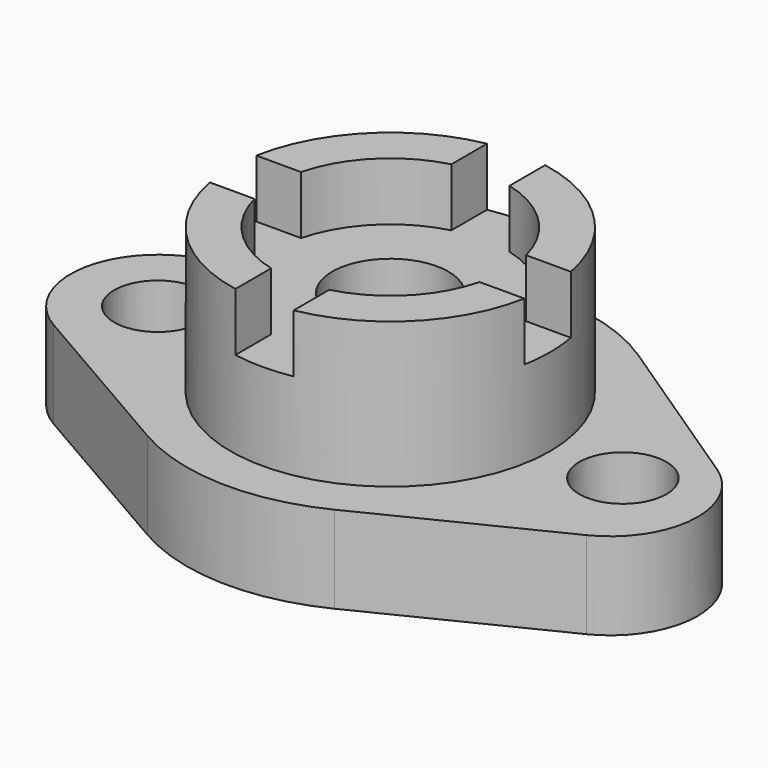
from build123d import *

# Parameters (mm, degrees)
F0_R     = 9.525
F0_R_2   = 34.925
F1_DEPTH = 19.05
F0_R_3   = 25.4
F2_DEPTH = 50.8
F0_R_4   = 12.7
F3_DEPTH = 38.1
F5_DEPTH = 12.7
F7_DEPTH = 12.7


with BuildPart() as f1:
    # F0 (on Top) → F1 (new body)
    with BuildSketch(Plane.XY):
        with BuildLine():
            Line((-60.325, -16.4977839421), (-22.225, -38.4948291982))
            ThreePointArc((-22.225, -38.4948291982), (-1.4272180614, -44.4270812524), (19.7084347148, -39.8419389725))
            Line((19.7084347148, -39.8419389725), (59.1417276134, -20.3356473933))
            ThreePointArc((59.1417276134, -20.3356473933), (69.70597644, -4.4832296998), (61.2595044194, 12.5918870027))
            Line((61.2595044194, 12.5918870027), (24.6499139288, 36.9889746181))
            ThreePointArc((24.6499139288, 36.9889746181), (1.4272180614, 44.4270812524), (-22.225, 38.4948291982))
            Line((-22.225, 38.4948291982), (-60.325, 16.4977839421))
            ThreePointArc((-60.325, 16.4977839421), (-69.85, 0), (-60.325, -16.4977839421))
        make_face()
        with Locations((-50.8, 0)):
            Circle(F0_R, mode=Mode.SUBTRACT)
        Circle(F0_R_2, mode=Mode.SUBTRACT)
        with Locations((50.8, 0)):
            Circle(F0_R, mode=Mode.SUBTRACT)
    extrude(amount=F1_DEPTH)

    # F0 (on Top) → F2 (join)
    with BuildSketch(Plane.XY):
        Circle(F0_R_2)
        Circle(F0_R_3, mode=Mode.SUBTRACT)
    extrude(amount=F2_DEPTH)

    # F0 (on Top) → F3 (join)
    with BuildSketch(Plane.XY):
        Circle(F0_R_3)
        Circle(F0_R_4, mode=Mode.SUBTRACT)
    extrude(amount=F3_DEPTH)

    # F4 (on face) → F5 (cut)
    with BuildSketch(Plane.XY.offset(50.8)):
        with BuildLine():
            ThreePointArc((6.35, 34.3428758988), (0, 34.925), (-6.35, 34.3428758988))
            Line((-6.35, 34.3428758988), (-6.35, 24.5934442484))
            ThreePointArc((-6.35, 24.5934442484), (0, 25.4), (6.35, 24.5934442484))
            Line((6.35, 24.5934442484), (6.35, 34.3428758988))
        make_face()
    extrude(amount=-F5_DEPTH, mode=Mode.SUBTRACT)

    # F6 (on face) → F7 (cut)
    with BuildSketch(Plane.XY.offset(50.8)):
        with BuildLine():
            Line((-24.5934442484, 6.35), (-34.3428758988, 6.35))
            ThreePointArc((-34.3428758988, 6.35), (-34.925, 0), (-34.3428758988, -6.35))
            Line((-34.3428758988, -6.35), (-24.5934442484, -6.35))
            ThreePointArc((-24.5934442484, -6.35), (-25.4, 0), (-24.5934442484, 6.35))
        make_face()
        with BuildLine():
            Line((-6.35, -24.5934442484), (-6.35, -34.3428758988))
            ThreePointArc((-6.35, -34.3428758988), (0, -34.925), (6.35, -34.3428758988))
            Line((6.35, -34.3428758988), (6.35, -24.5934442484))
            ThreePointArc((6.35, -24.5934442484), (0, -25.4), (-6.35, -24.5934442484))
        make_face()
        with BuildLine():
            Line((24.5934442484, -6.35), (34.3428758988, -6.35))
            ThreePointArc((34.3428758988, -6.35), (34.7791644937, -3.1883133656), (34.925, 0))
            ThreePointArc((34.925, 0), (34.7791644937, 3.1883133656), (34.3428758988, 6.35))
            Line((34.3428758988, 6.35), (24.5934442484, 6.35))
            ThreePointArc((24.5934442484, 6.35), (25.4, 0), (24.5934442484, -6.35))
        make_face()
    extrude(amount=-F7_DEPTH, mode=Mode.SUBTRACT)


solid = f1.part
